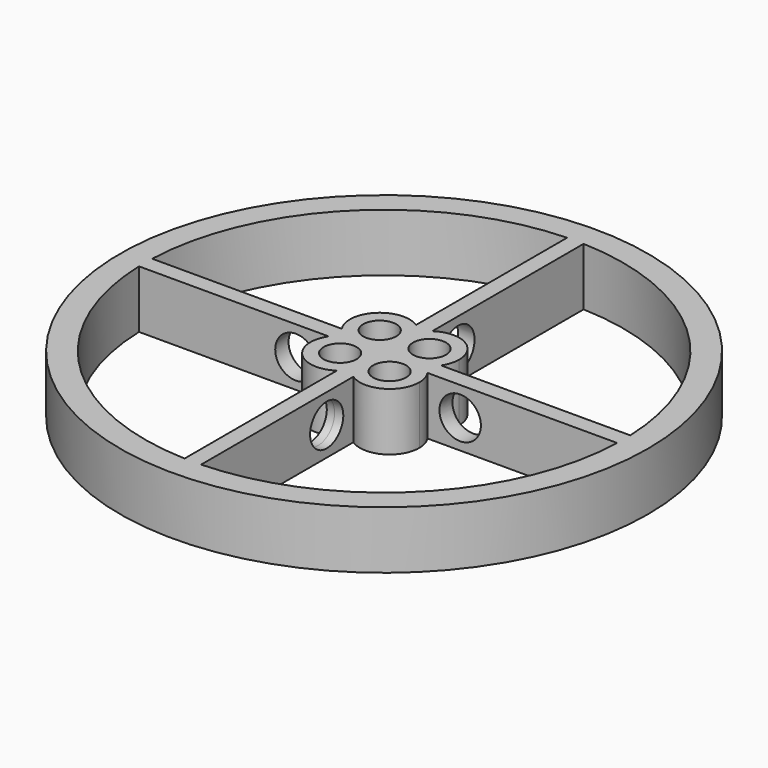
from build123d import *

# Parameters (mm, degrees)
F0_R     = 32
F0_W     = 2
F0_H     = 2
F1_DEPTH = 7
F2_R     = 2.5
F4_R     = 2
F5_DEPTH = 7


with BuildPart() as f1:
    # F0 (on Top) → F1 (new body)
    with BuildSketch(Plane.XY):
        Circle(F0_R)
        with BuildLine():
            ThreePointArc((1, 28.9827534924), (20.4757041145, 20.5364442155), (28.9796643011, 1.0858439086))
            Line((28.9796643011, 1.0858439086), (29.9863147924, 1.0858439086))
            Line((29.9863147924, 1.0858439086), (29.9863147924, -0.9141560914))
            Line((29.9863147924, -0.9141560914), (28.9855881196, -0.9141560914))
            ThreePointArc((28.9855881196, -0.9141560914), (20.5364411166, -20.4757072226), (1, -28.9827534924))
            Line((1, -28.9827534924), (1, -29.9833287011))
            Line((1, -29.9833287011), (-1, -29.9833287011))
            Line((-1, -29.9833287011), (-1, -28.9827534924))
            ThreePointArc((-1, -28.9827534924), (-20.5364411166, -20.4757072226), (-28.9855881196, -0.9141560914))
            Line((-28.9855881196, -0.9141560914), (-29.9803426099, -0.9141560914))
            Line((-29.9803426099, -0.9141560914), (-29.9803426099, 1.0858439086))
            Line((-29.9803426099, 1.0858439086), (-28.9796643011, 1.0858439086))
            ThreePointArc((-28.9796643011, 1.0858439086), (-20.4757041145, 20.5364442155), (-1, 28.9827534924))
            Line((-1, 28.9827534924), (-1, 29.9833287011))
            Line((-1, 29.9833287011), (1, 29.9833287011))
            Line((1, 29.9833287011), (1, 28.9827534924))
        make_face(mode=Mode.SUBTRACT)
        with BuildLine():
            ThreePointArc((-1, 28.9827534924), (0, 29), (1, 28.9827534924))
            Line((1, 28.9827534924), (1, 29.9833287011))
            Line((1, 29.9833287011), (-1, 29.9833287011))
            Line((-1, 29.9833287011), (-1, 28.9827534924))
        make_face()
        with BuildLine():
            ThreePointArc((-28.9855881196, -0.9141560914), (-28.9998727937, 0.0858949914), (-28.9796643011, 1.0858439086))
            Line((-28.9796643011, 1.0858439086), (-29.9803426099, 1.0858439086))
            Line((-29.9803426099, 1.0858439086), (-29.9803426099, -0.9141560914))
            Line((-29.9803426099, -0.9141560914), (-28.9855881196, -0.9141560914))
        make_face()
        with BuildLine():
            Line((1, -29.9833287011), (1, -28.9827534924))
            ThreePointArc((1, -28.9827534924), (0, -29), (-1, -28.9827534924))
            Line((-1, -28.9827534924), (-1, -29.9833287011))
            Line((-1, -29.9833287011), (1, -29.9833287011))
        make_face()
        with Locations((0, 0.0858439086)):
            Rectangle(F0_W, F0_H)
        with BuildLine():
            Line((-1, -0.9141560914), (-1, 1.0858439086))
            Line((-1, 1.0858439086), (-28.9796643011, 1.0858439086))
            ThreePointArc((-28.9796643011, 1.0858439086), (-28.9998727937, 0.0858949914), (-28.9855881196, -0.9141560914))
            Line((-28.9855881196, -0.9141560914), (-1, -0.9141560914))
        make_face()
        with BuildLine():
            ThreePointArc((28.9855881196, -0.9141560914), (28.9963968061, -0.4571348438), (29, 0))
            ThreePointArc((29, 0), (28.9949156296, 0.5430171578), (28.9796643011, 1.0858439086))
            Line((28.9796643011, 1.0858439086), (1, 1.0858439086))
            Line((1, 1.0858439086), (1, -0.9141560914))
            Line((1, -0.9141560914), (28.9855881196, -0.9141560914))
        make_face()
        with BuildLine():
            Line((1, 1.0858439086), (1, 28.9827534924))
            ThreePointArc((1, 28.9827534924), (0, 29), (-1, 28.9827534924))
            Line((-1, 28.9827534924), (-1, 1.0858439086))
            Line((-1, 1.0858439086), (1, 1.0858439086))
        make_face()
        with BuildLine():
            ThreePointArc((-1, -28.9827534924), (0, -29), (1, -28.9827534924))
            Line((1, -28.9827534924), (1, -0.9141560914))
            Line((1, -0.9141560914), (-1, -0.9141560914))
            Line((-1, -0.9141560914), (-1, -28.9827534924))
        make_face()
        with BuildLine():
            ThreePointArc((28.9796643011, 1.0858439086), (28.9949156296, 0.5430171578), (29, 0))
            ThreePointArc((29, 0), (28.9963968061, -0.4571348438), (28.9855881196, -0.9141560914))
            Line((28.9855881196, -0.9141560914), (29.9863147924, -0.9141560914))
            Line((29.9863147924, -0.9141560914), (29.9863147924, 1.0858439086))
            Line((29.9863147924, 1.0858439086), (28.9796643011, 1.0858439086))
        make_face()
    extrude(amount=F1_DEPTH)

    # F2 (on Right) → F3 (revolve, cut)
    with BuildSketch(Plane.YZ):
        with Locations((-10, 3.4933774173)):
            Circle(F2_R)
    revolve(axis=Axis((0, 0, 9.8674278706), (0, 0, 1)), mode=Mode.SUBTRACT)

    # F4 (on Top) → F5 (join)
    with BuildSketch(Plane.XY):
        with BuildLine():
            ThreePointArc((5.0092860358, 0.072944447), (6.2053928233, 1.3731565576), (6.6388960149, 3.0858439086))
            ThreePointArc((6.6388960149, 3.0858439086), (4.061145293, 6.5376559564), (0.0194480075, 5.0461841164))
            ThreePointArc((0.0194480075, 5.0461841164), (0.4518120478, 4.1080931867), (0.6, 3.0858439086))
            ThreePointArc((0.6, 3.0858439086), (0.4518120478, 2.0635946305), (0.0194480075, 1.1255037008))
            ThreePointArc((0.0194480075, 1.1255037008), (0.4726534867, 0.5610866358), (1.0296099792, 0.0987433702))
            ThreePointArc((1.0296099792, 0.0987433702), (3.0233371186, 0.685768266), (5.0092860358, 0.072944447))
        make_face()
        with Locations((3.0388960149, 3.0858439086)):
            Circle(F4_R, mode=Mode.SUBTRACT)
        with BuildLine():
            ThreePointArc((6.6, -2.9141560914), (6.1775328266, -1.2220316469), (5.0092860358, 0.072944447))
            ThreePointArc((5.0092860358, 0.072944447), (3.0155588963, -0.5140804488), (1.0296099792, 0.0987433702))
            ThreePointArc((1.0296099792, 0.0987433702), (0.4627203706, -0.360293902), (0, -0.9241812172))
            ThreePointArc((0, -0.9241812172), (0.4467375879, -1.8749256068), (0.6, -2.9141560914))
            ThreePointArc((0.6, -2.9141560914), (0.4467375879, -3.9533865759), (0, -4.9041309656))
            ThreePointArc((0, -4.9041309656), (4.0392304845, -6.3608936793), (6.6, -2.9141560914))
        make_face()
        with Locations((3, -2.9141560914)):
            Circle(F4_R, mode=Mode.SUBTRACT)
        with BuildLine():
            ThreePointArc((-1.0100251258, 0.0858439086), (-3, -0.5141560914), (-4.9899748742, 0.0858439086))
            ThreePointArc((-4.9899748742, 0.0858439086), (-5.5455844123, -5.4597405036), (0, -4.9041309656))
            ThreePointArc((0, -4.9041309656), (-0.6, -2.9141560914), (0, -0.9241812172))
            ThreePointArc((0, -0.9241812172), (-0.4544155877, -0.3685716791), (-1.0100251258, 0.0858439086))
        make_face()
        with Locations((-3, -2.9141560914)):
            Circle(F4_R, mode=Mode.SUBTRACT)
        with BuildLine():
            ThreePointArc((0.0194480075, 1.1255037008), (-0.5611039851, 3.0858439086), (0.0194480075, 5.0461841164))
            ThreePointArc((0.0194480075, 5.0461841164), (-5.5330214127, 5.6439296231), (-4.9899748742, 0.0858439086))
            ThreePointArc((-4.9899748742, 0.0858439086), (-3, 0.6858439086), (-1.0100251258, 0.0858439086))
            ThreePointArc((-1.0100251258, 0.0858439086), (-0.4419142855, 0.5528224959), (0.0194480075, 1.1255037008))
        make_face()
        with Locations((-3, 3.0858439086)):
            Circle(F4_R, mode=Mode.SUBTRACT)
    extrude(amount=F5_DEPTH)


solid = f1.part
